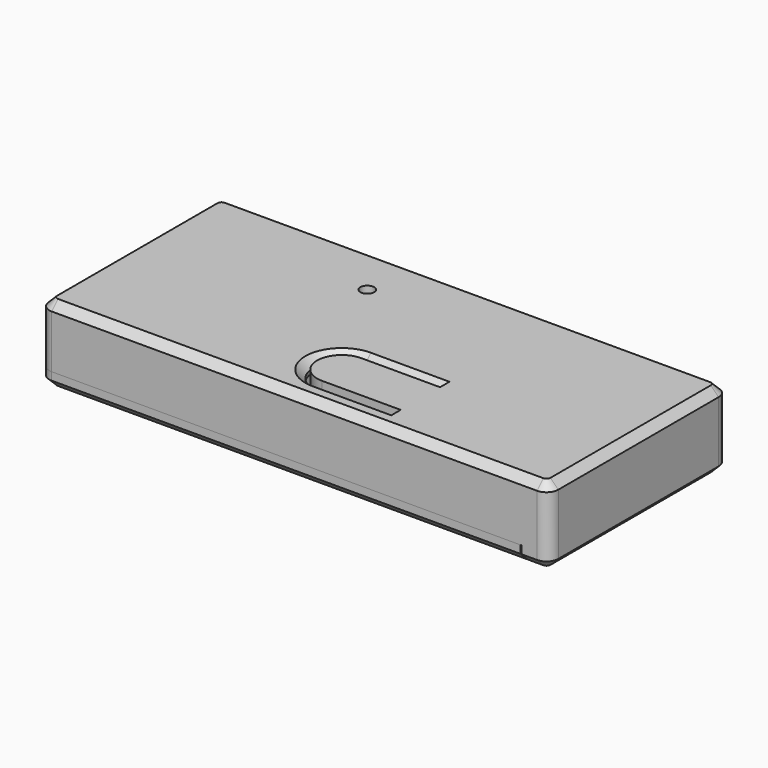
from build123d import *

# Parameters (mm, degrees)
PAD_DEPTH       = 5
SKETCH001_W     = 51.8
SKETCH001_H     = 22.8
SKETCH001_R     = 0.7
PAD001_DEPTH    = 1.2
SKETCH002_W     = 8
SKETCH002_H     = 4.1
SKETCH002_R     = 0.7
SKETCH002_H_2   = 1.5
SKETCH002_W_2   = 1.6
SKETCH002_H_3   = 7
PAD002_DEPTH    = 3.4
SKETCH003_R     = 1.9
PAD003_DEPTH    = 1.6
SKETCH004_W     = 2.8
SKETCH004_H     = 22.8
PAD004_DEPTH    = 1.6
CHAMFER_SIZE    = 1.59
FILLET001_R     = 1.2
CHAMFER003_SIZE = 0.8
SKETCH005_R     = 0.85
SKETCH005_W     = 14
SKETCH005_H     = 17
PAD005_DEPTH    = 1.6
CHAMFER001_SIZE = 1.59
POCKET_DEPTH    = 1
FILLET_R        = 1.2
CHAMFER004_SIZE = 0.8


with BuildPart() as hat:
    # Sketch → Pad (new body)
    with BuildSketch(Plane.XY):
        Polygon((-25.9, 6.1), (-24.7, 6.1), (-24.7, 10.2), (24.7, 10.2), (24.7, -10.2), (-24.7, -10.2), (-24.7, -6.1), (-25.9, -6.1), (-25.9, -11.4), (25.9, -11.4), (25.9, 11.4), (-25.9, 11.4), align=None)
    extrude(amount=PAD_DEPTH)

    # Sketch001 (on Face14 of Pad) → Pad001 (join)
    with BuildSketch(Plane.XY.offset(5)):
        Rectangle(SKETCH001_W, SKETCH001_H)
        with Locations((-6.5, 6)):
            Circle(SKETCH001_R, mode=Mode.SUBTRACT)
        with BuildLine():
            ThreePointArc((0.5, -3.5), (-2, -6), (0.5, -8.5))
            Line((0.5, -8.5), (8.5, -8.5))
            Line((8.5, -8.5), (8.5, -8.9))
            Line((0.5, -8.9), (8.5, -8.9))
            ThreePointArc((0.5, -3.1), (-2.4, -6), (0.5, -8.9))
            Line((0.5, -3.1), (8.5, -3.1))
            Line((8.5, -3.1), (8.5, -3.5))
            Line((0.5, -3.5), (8.5, -3.5))
        make_face(mode=Mode.SUBTRACT)
    extrude(amount=PAD001_DEPTH)

    # Sketch002 (on Face4 of Pad001) → Pad002 (join)
    with BuildSketch(Plane(origin=(0, 0, 5), x_dir=(1, 0, 0), z_dir=(0, 0, -1))):
        with Locations((-20.7, 8.15)):
            Rectangle(SKETCH002_W, SKETCH002_H)
        with Locations((-18.5, 8.5)):
            Circle(SKETCH002_R, mode=Mode.SUBTRACT)
        with Locations((-20.7, -8.15)):
            Rectangle(SKETCH002_W, SKETCH002_H)
        with Locations((-18.5, -8.5)):
            Circle(SKETCH002_R, mode=Mode.SUBTRACT)
        with Locations((10.5, -9.45)):
            Rectangle(SKETCH002_W, SKETCH002_H_2)
        with Locations((-5.7, 6.7)):
            Rectangle(SKETCH002_W_2, SKETCH002_H_3)
    extrude(amount=PAD002_DEPTH)

    # Sketch003 (on Face4 of Pad002) → Pad003 (join)
    with BuildSketch(Plane(origin=(0, 0, 5), x_dir=(1, 0, 0), z_dir=(0, 0, -1))):
        with Locations((0.5, 6)):
            Circle(SKETCH003_R)
    extrude(amount=PAD003_DEPTH)

    # Sketch004 (on Face2 of Pad003) → Pad004 (join)
    with BuildSketch(Plane(origin=(0, 0, 0), x_dir=(1, 0, 0), z_dir=(0, 0, -1))):
        with Locations((24.5, 0)):
            Rectangle(SKETCH004_W, SKETCH004_H)
    extrude(amount=PAD004_DEPTH)

    # Chamfer
    chamfer_edges = [hat.edges().sort_by_distance(p)[0] for p in [
        (23.1, 0, 0),
    ]]
    chamfer(chamfer_edges, length=CHAMFER_SIZE)

    # Fillet001
    fillet001_edges = [hat.edges().sort_by_distance(p)[0] for p in [
        (-25.9, 11.4, 3.1),
        (25.9, 11.4, 2.3),
        (25.9, -11.4, 2.3),
        (-25.9, -11.4, 3.1),
        (-16.7, -6.1, 3.3),
        (-16.7, 6.1, 3.3),
        (6.5, 8.7, 3.3),
        (14.5, 8.7, 3.3),
    ]]
    fillet(fillet001_edges, radius=FILLET001_R)

    # Chamfer003
    chamfer003_edges = [hat.edges().sort_by_distance(p)[0] for p in [
        (0, -11.4, 6.2),
        (-25.548528, -11.048528, 6.2),
        (-25.9, 0, 6.2),
        (-25.548528, 11.048528, 6.2),
        (0, 11.4, 6.2),
        (25.548528, 11.048528, 6.2),
        (25.9, 0, 6.2),
        (25.548528, -11.048528, 6.2),
        (4.5, -8.9, 6.2),
        (-2.4, -6, 6.2),
        (4.5, -3.1, 6.2),
        (23.9, 11.4, -1.6),
        (25.548528, 11.048528, -1.6),
        (25.9, 0, -1.6),
        (23.9, -11.4, -1.6),
        (25.548528, -11.048528, -1.6),
        (-1.4, -6, 3.4),
    ]]
    chamfer(chamfer003_edges, length=CHAMFER003_SIZE)


with BuildPart() as plate:
    # Sketch005 → Pad005 (new body)
    with BuildSketch(Plane.XY):
        Polygon((-25.9, -11.4), (23, -11.4), (23, -10.2), (24.6, -10.2), (24.6, 10.2), (23, 10.2), (23, 11.4), (-25.9, 11.4), align=None)
        with Locations((-18.5, 8.5)):
            Circle(SKETCH005_R, mode=Mode.SUBTRACT)
        with Locations((-18.5, -8.5)):
            Circle(SKETCH005_R, mode=Mode.SUBTRACT)
        with Locations((-0.1, 0)):
            Rectangle(SKETCH005_W, SKETCH005_H, mode=Mode.SUBTRACT)
    extrude(amount=-PAD005_DEPTH)

    # Chamfer001
    chamfer001_edges = [plate.edges().sort_by_distance(p)[0] for p in [
        (24.6, 0, -1.6),
    ]]
    chamfer(chamfer001_edges, length=CHAMFER001_SIZE)

    # Sketch006 (on Face4 of Chamfer001) → Pocket (cut)
    with BuildSketch(Plane.XY):
        with BuildLine():
            ThreePointArc((-22.6, 6.9), (-23.6, 5.9), (-22.6, 4.9))
            Line((-22.6, 4.9), (-19.6, 4.9))
            ThreePointArc((-19.6, 4.9), (-18.6, 5.9), (-19.6, 6.9))
            Line((-22.6, 6.9), (-19.6, 6.9))
        make_face()
        with BuildLine():
            ThreePointArc((-22.6, -4.9), (-23.6, -5.9), (-22.6, -6.9))
            Line((-22.6, -6.9), (-19.6, -6.9))
            ThreePointArc((-19.6, -6.9), (-18.6, -5.9), (-19.6, -4.9))
            Line((-22.6, -4.9), (-19.6, -4.9))
        make_face()
    extrude(amount=-POCKET_DEPTH, mode=Mode.SUBTRACT)

    # Fillet
    fillet_edges = [plate.edges().sort_by_distance(p)[0] for p in [
        (-25.9, -11.4, -0.8),
        (-25.9, 11.4, -0.8),
    ]]
    fillet(fillet_edges, radius=FILLET_R)

    # Chamfer004
    chamfer004_edges = [plate.edges().sort_by_distance(p)[0] for p in [
        (-0.85, -11.4, -1.6),
        (-25.9, 0, -1.6),
        (-25.548528, -11.048528, -1.6),
        (-25.548528, 11.048528, -1.6),
        (-0.85, 11.4, -1.6),
        (-0.1, 8.5, -1.6),
        (6.9, 0, -1.6),
        (-7.1, 0, -1.6),
        (-0.1, -8.5, -1.6),
        (-19.35, -8.5, -1.6),
        (-19.35, 8.5, -1.6),
    ]]
    chamfer(chamfer004_edges, length=CHAMFER004_SIZE)


solid = Compound([hat.part, plate.part])
